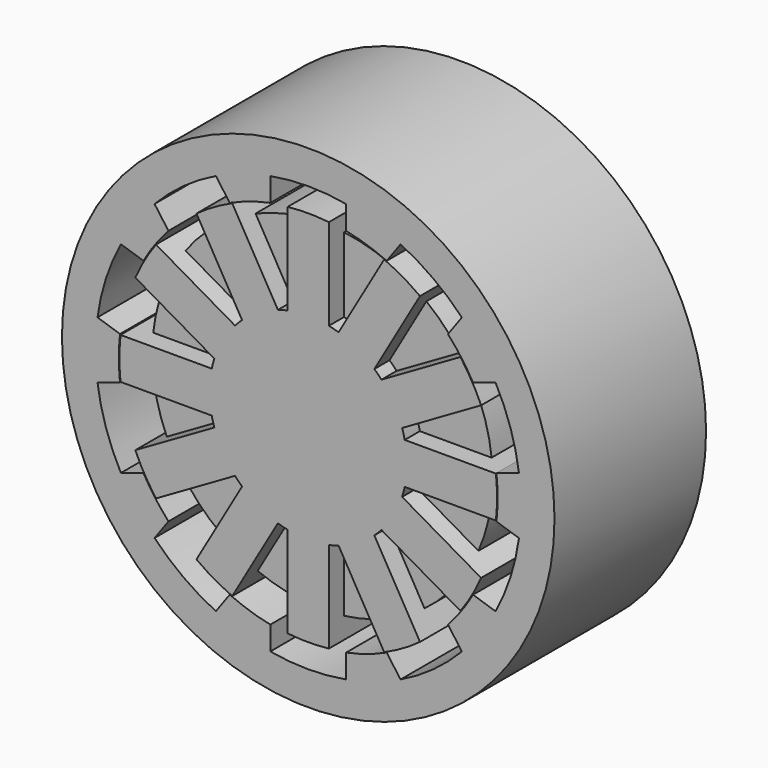
from build123d import *

# Parameters (mm, degrees)
F0_R     = 65
F2_DEPTH = 25
F3_DEPTH = 25
F1_R     = 44.916046
F4_DEPTH = 20


with BuildPart() as f2:
    # F0 (on Front) → F2 (new body, symmetric)
    with BuildSketch(Plane.XZ):
        with Locations((-120.961553, -15.129341)):
            Circle(F0_R)
        with BuildLine():
            Line((-130.961553, 33.860454), (-130.961553, 40.103608))
            ThreePointArc((-130.961553, 40.103608), (-120.961553, 41.001566), (-110.961553, 40.103608))
            Line((-110.961553, 40.103608), (-110.961553, 33.860454))
            ThreePointArc((-110.961553, 33.860454), (-105.510703, 32.423485), (-100.256244, 30.382088))
            Line((-100.256244, 30.382088), (-96.58661, 35.432906))
            ThreePointArc((-96.58661, 35.432906), (-87.968634, 30.281516), (-80.40627, 23.677201))
            Line((-80.40627, 23.677201), (-84.075904, 18.626383))
            ThreePointArc((-84.075904, 18.626383), (-80.510703, 14.259922), (-77.45966, 9.519904))
            Line((-77.45966, 9.519904), (-71.522067, 11.449144))
            ThreePointArc((-71.522067, 11.449144), (-67.577889, 2.216063), (-65.341727, -7.571986))
            Line((-65.341727, -7.571986), (-71.27932, -9.501227))
            ThreePointArc((-71.27932, -9.501227), (-70.961553, -15.129341), (-71.27932, -20.757455))
            Line((-71.27932, -20.757455), (-65.341727, -22.686696))
            ThreePointArc((-65.341727, -22.686696), (-67.577889, -32.474745), (-71.522067, -41.707826))
            Line((-71.522067, -41.707826), (-77.45966, -39.778585))
            ThreePointArc((-77.45966, -39.778585), (-80.510703, -44.518603), (-84.075904, -48.885065))
            Line((-84.075904, -48.885065), (-80.40627, -53.935883))
            ThreePointArc((-80.40627, -53.935883), (-87.968634, -60.540198), (-96.58661, -65.691588))
            Line((-96.58661, -65.691588), (-100.256244, -60.64077))
            ThreePointArc((-100.256244, -60.64077), (-105.510703, -62.682167), (-110.961553, -64.119136))
            Line((-110.961553, -64.119136), (-110.961553, -70.36229))
            ThreePointArc((-110.961553, -70.36229), (-120.961553, -71.260247), (-130.961553, -70.36229))
            Line((-130.961553, -70.36229), (-130.961553, -64.119136))
            ThreePointArc((-130.961553, -64.119136), (-136.412403, -62.682167), (-141.666862, -60.64077))
            Line((-141.666862, -60.64077), (-145.336496, -65.691588))
            ThreePointArc((-145.336496, -65.691588), (-153.954472, -60.540198), (-161.516836, -53.935883))
            Line((-161.516836, -53.935883), (-157.847202, -48.885065))
            ThreePointArc((-157.847202, -48.885065), (-161.412403, -44.518603), (-164.463447, -39.778585))
            Line((-164.463447, -39.778585), (-170.401039, -41.707826))
            ThreePointArc((-170.401039, -41.707826), (-174.345218, -32.474745), (-176.581379, -22.686696))
            Line((-176.581379, -22.686696), (-170.643787, -20.757455))
            ThreePointArc((-170.643787, -20.757455), (-170.961553, -15.129341), (-170.643787, -9.501227))
            Line((-170.643787, -9.501227), (-176.581379, -7.571986))
            ThreePointArc((-176.581379, -7.571986), (-174.345218, 2.216063), (-170.401039, 11.449144))
            Line((-170.401039, 11.449144), (-164.463447, 9.519904))
            ThreePointArc((-164.463447, 9.519904), (-161.412403, 14.259922), (-157.847202, 18.626383))
            Line((-157.847202, 18.626383), (-161.516836, 23.677201))
            ThreePointArc((-161.516836, 23.677201), (-153.954472, 30.281516), (-145.336496, 35.432906))
            Line((-145.336496, 35.432906), (-141.666862, 30.382088))
            ThreePointArc((-141.666862, 30.382088), (-136.412403, 32.423485), (-130.961553, 33.860454))
        make_face(mode=Mode.SUBTRACT)
    extrude(amount=F2_DEPTH, both=True)


with BuildPart() as f3:
    # F0 (on Front) → F3 (new body, symmetric)
    with BuildSketch(Plane.XZ):
        with BuildLine():
            Line((-126.415759, 34.413607), (-126.415759, 32.423485))
            Line((-126.415759, 32.423485), (-126.415759, 10.334424))
            ThreePointArc((-126.415759, 10.334424), (-127.701549, 10.024668), (-128.969955, 9.65003))
            Line((-128.969955, 9.65003), (-141.009546, 30.503213))
            ThreePointArc((-141.009546, 30.503213), (-145.882689, 28.035332), (-150.456508, 25.049007))
            Line((-150.456508, 25.049007), (-138.416917, 4.195824))
            ThreePointArc((-138.416917, 4.195824), (-139.375565, 3.284671), (-140.286718, 2.326023))
            Line((-140.286718, 2.326023), (-161.139901, 14.365614))
            ThreePointArc((-161.139901, 14.365614), (-164.126226, 9.791795), (-166.594107, 4.918652))
            Line((-166.594107, 4.918652), (-145.740924, -7.120939))
            ThreePointArc((-145.740924, -7.120939), (-146.115562, -8.389345), (-146.425318, -9.675135))
            Line((-146.425318, -9.675135), (-170.504501, -9.675135))
            ThreePointArc((-170.504501, -9.675135), (-170.803824, -15.129341), (-170.504501, -20.583547))
            Line((-170.504501, -20.583547), (-146.425318, -20.583547))
            ThreePointArc((-146.425318, -20.583547), (-146.115562, -21.869337), (-145.740924, -23.137742))
            Line((-145.740924, -23.137742), (-166.594107, -35.177333))
            ThreePointArc((-166.594107, -35.177333), (-164.126226, -40.050476), (-161.139901, -44.624296))
            Line((-161.139901, -44.624296), (-140.286718, -32.584704))
            ThreePointArc((-140.286718, -32.584704), (-139.375565, -33.543353), (-138.416917, -34.454505))
            Line((-138.416917, -34.454505), (-150.456508, -55.307689))
            ThreePointArc((-150.456508, -55.307689), (-145.882689, -58.294014), (-141.009546, -60.761895))
            Line((-141.009546, -60.761895), (-128.969955, -39.908711))
            ThreePointArc((-128.969955, -39.908711), (-127.701549, -40.283349), (-126.415759, -40.593106))
            Line((-126.415759, -40.593106), (-126.415759, -64.672288))
            ThreePointArc((-126.415759, -64.672288), (-120.961553, -64.971612), (-115.507347, -64.672288))
            Line((-115.507347, -64.672288), (-115.507347, -40.593106))
            ThreePointArc((-115.507347, -40.593106), (-114.221557, -40.283349), (-112.953152, -39.908711))
            Line((-112.953152, -39.908711), (-100.913561, -60.761895))
            ThreePointArc((-100.913561, -60.761895), (-96.040418, -58.294014), (-91.466598, -55.307689))
            Line((-91.466598, -55.307689), (-103.50619, -34.454505))
            ThreePointArc((-103.50619, -34.454505), (-102.547541, -33.543353), (-101.636389, -32.584704))
            Line((-101.636389, -32.584704), (-80.783205, -44.624296))
            ThreePointArc((-80.783205, -44.624296), (-77.79688, -40.050476), (-75.328999, -35.177333))
            Line((-75.328999, -35.177333), (-96.182183, -23.137742))
            ThreePointArc((-96.182183, -23.137742), (-95.807545, -21.869337), (-95.497788, -20.583547))
            Line((-95.497788, -20.583547), (-71.418606, -20.583547))
            ThreePointArc((-71.418606, -20.583547), (-71.119282, -15.129341), (-71.418606, -9.675135))
            Line((-71.418606, -9.675135), (-95.497788, -9.675135))
            ThreePointArc((-95.497788, -9.675135), (-95.807545, -8.389345), (-96.182183, -7.120939))
            Line((-96.182183, -7.120939), (-75.328999, 4.918652))
            ThreePointArc((-75.328999, 4.918652), (-77.79688, 9.791795), (-80.783205, 14.365614))
            Line((-80.783205, 14.365614), (-101.636389, 2.326023))
            ThreePointArc((-101.636389, 2.326023), (-102.547541, 3.284671), (-103.50619, 4.195824))
            Line((-103.50619, 4.195824), (-91.466598, 25.049007))
            ThreePointArc((-91.466598, 25.049007), (-96.040418, 28.035332), (-100.913561, 30.503213))
            Line((-100.913561, 30.503213), (-112.953152, 9.65003))
            ThreePointArc((-112.953152, 9.65003), (-114.221557, 10.024668), (-115.507347, 10.334424))
            Line((-115.507347, 10.334424), (-115.507347, 32.423485))
            Line((-115.507347, 32.423485), (-115.507347, 34.413607))
            ThreePointArc((-115.507347, 34.413607), (-120.961553, 34.71293), (-126.415759, 34.413607))
        make_face()
    extrude(amount=F3_DEPTH, both=True)

    # F1 (on Front) → F4 (join, symmetric)
    with BuildSketch(Plane.XZ):
        with Locations((-121.217057, -14.525875)):
            Circle(F1_R)
    extrude(amount=F4_DEPTH, both=True)


solid = Compound([f2.part, f3.part])
